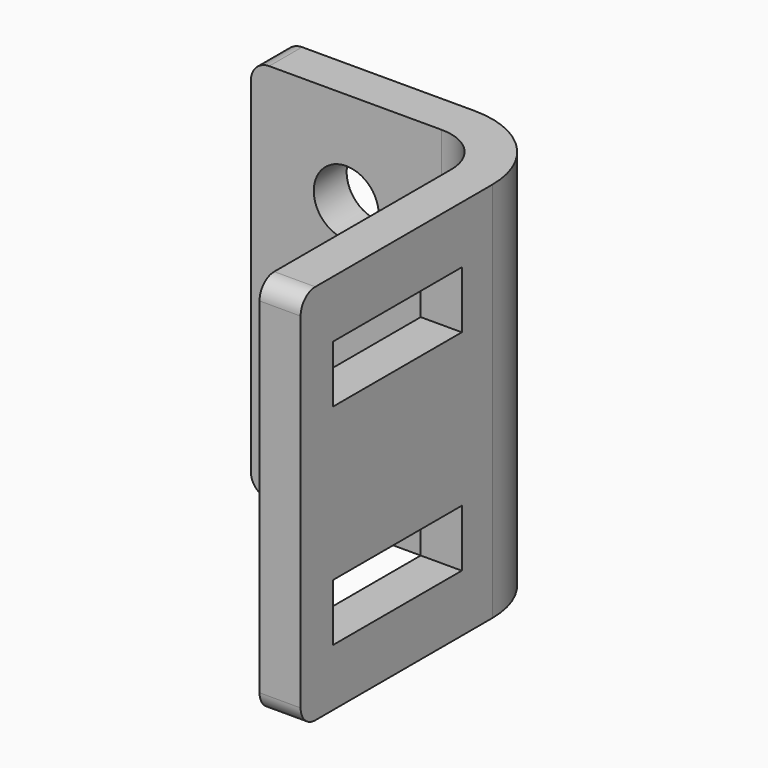
from build123d import *

# Parameters (mm, degrees)
F1_DEPTH = 15.875
F2_R     = 0.762
F3_R     = 1.98374
F4_R     = 3.69316
F5_W     = 6.707656
F5_H     = 2.38125
F6_DEPTH = 1.70942
F7_R     = 1.35255
F8_DEPTH = 1.70942


with BuildPart() as f1:
    # F0 (on Top) → F1 (new body)
    with BuildSketch(Plane.XY):
        Polygon((0, 0), (0, -11.952478), (1.70942, -11.952478), (1.70942, 1.70942), (-9.92124, 1.70942), (-9.92124, 0), align=None)
    extrude(amount=F1_DEPTH)

    # F2
    f2_edges = [f1.edges().sort_by_distance(p)[0] for p in [
        (-9.92124, 0.85471, 15.875),
        (-9.92124, 0.85471, 0),
        (0.85471, -11.952478, 0),
        (0.85471, -11.952478, 15.875),
    ]]
    fillet(f2_edges, radius=F2_R)

    # F3
    f3_edges = [f1.edges().sort_by_distance(p)[0] for p in [
        (0, 0, 7.9375),
    ]]
    fillet(f3_edges, radius=F3_R)

    # F4
    f4_edges = [f1.edges().sort_by_distance(p)[0] for p in [
        (1.70942, 1.70942, 7.9375),
    ]]
    fillet(f4_edges, radius=F4_R)

    # F5 (on face) → F6 (cut, through all)
    with BuildSketch(Plane(origin=(0, 0, 0), x_dir=(0, -1, 0), z_dir=(-1, 0, 0))):
        with Locations((6.925068, 12.303125)):
            Rectangle(F5_W, F5_H)
        with Locations((6.925068, 3.571875)):
            Rectangle(F5_W, F5_H)
    extrude(amount=-F6_DEPTH, mode=Mode.SUBTRACT)

    # F7 (on face) → F8 (cut, through all)
    with BuildSketch(Plane.XZ):
        with Locations((-5.95249, 11.90625)):
            Circle(F7_R)
        with Locations((-5.95249, 3.96875)):
            Circle(F7_R)
    extrude(amount=-F8_DEPTH, mode=Mode.SUBTRACT)


solid = f1.part
